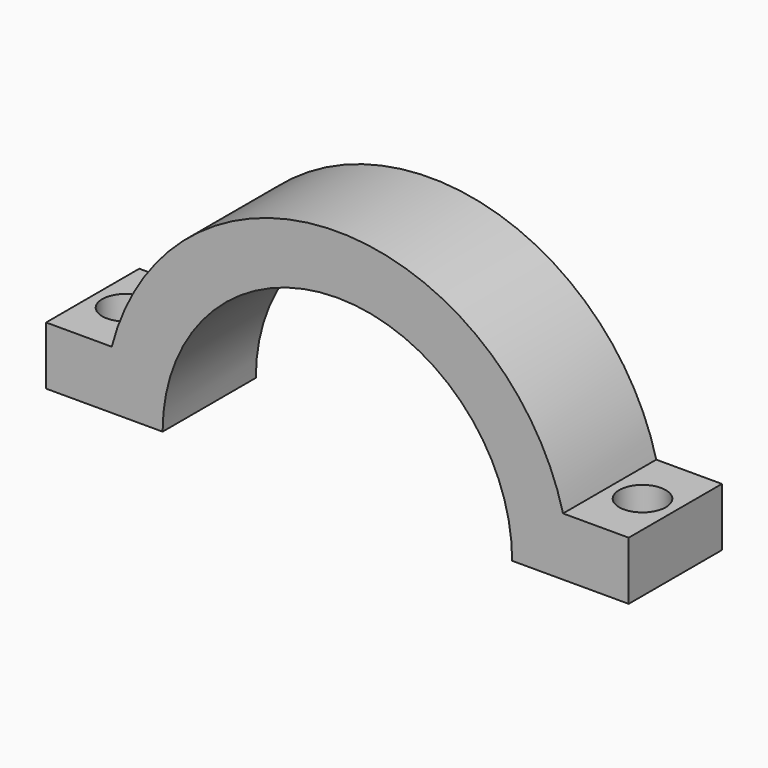
from build123d import *

# Parameters (mm, degrees)
F1_DEPTH = 12.7
F2_R     = 2.54
F3_DEPTH = 25.4
F4_R     = 2.54
F5_DEPTH = 25.4


with BuildPart() as f1:
    # F0 (on Front) → F1 (new body)
    with BuildSketch(Plane.XZ):
        with BuildLine():
            Line((-49.853401, 28.685216), (-49.853401, 22.335216))
            Line((-49.853401, 22.335216), (-43.503401, 22.335216))
            ThreePointArc((-43.503401, 22.335216), (-43.705847, 25.535725), (-44.309957, 28.685216))
            Line((-44.309957, 28.685216), (-49.853401, 28.685216))
        make_face()
        with BuildLine():
            ThreePointArc((-87.953401, 22.335216), (-68.903401, 41.385216), (-49.853401, 22.335216))
            Line((-49.853401, 22.335216), (-49.853401, 28.685216))
            Line((-49.853401, 28.685216), (-44.309957, 28.685216))
            ThreePointArc((-44.309957, 28.685216), (-68.903401, 47.735216), (-93.496846, 28.685216))
            Line((-93.496846, 28.685216), (-87.953401, 28.685216))
            Line((-87.953401, 28.685216), (-87.953401, 22.335216))
        make_face()
        with BuildLine():
            Line((-94.303401, 22.335216), (-87.953401, 22.335216))
            Line((-87.953401, 22.335216), (-87.953401, 28.685216))
            Line((-87.953401, 28.685216), (-93.496846, 28.685216))
            ThreePointArc((-93.496846, 28.685216), (-94.100956, 25.535725), (-94.303401, 22.335216))
        make_face()
        with BuildLine():
            ThreePointArc((-44.309957, 28.685216), (-43.705847, 25.535725), (-43.503401, 22.335216))
            Line((-43.503401, 22.335216), (-37.153401, 22.335216))
            Line((-37.153401, 22.335216), (-37.153401, 28.685216))
            Line((-37.153401, 28.685216), (-44.309957, 28.685216))
        make_face()
        with BuildLine():
            Line((-100.653401, 22.335216), (-94.303401, 22.335216))
            ThreePointArc((-94.303401, 22.335216), (-94.100956, 25.535725), (-93.496846, 28.685216))
            Line((-93.496846, 28.685216), (-100.653401, 28.685216))
            Line((-100.653401, 28.685216), (-100.653401, 22.335216))
        make_face()
    extrude(amount=F1_DEPTH)

    # F2 (on face) → F3 (cut)
    with BuildSketch(Plane.XY.offset(28.685216)):
        with Locations((-40.731679, -6.35)):
            Circle(F2_R)
    extrude(amount=-F3_DEPTH, mode=Mode.SUBTRACT)

    # F4 (on face) → F5 (cut)
    with BuildSketch(Plane.XY.offset(28.685216)):
        with Locations((-97.075124, -6.35)):
            Circle(F4_R)
    extrude(amount=-F5_DEPTH, mode=Mode.SUBTRACT)


solid = f1.part
